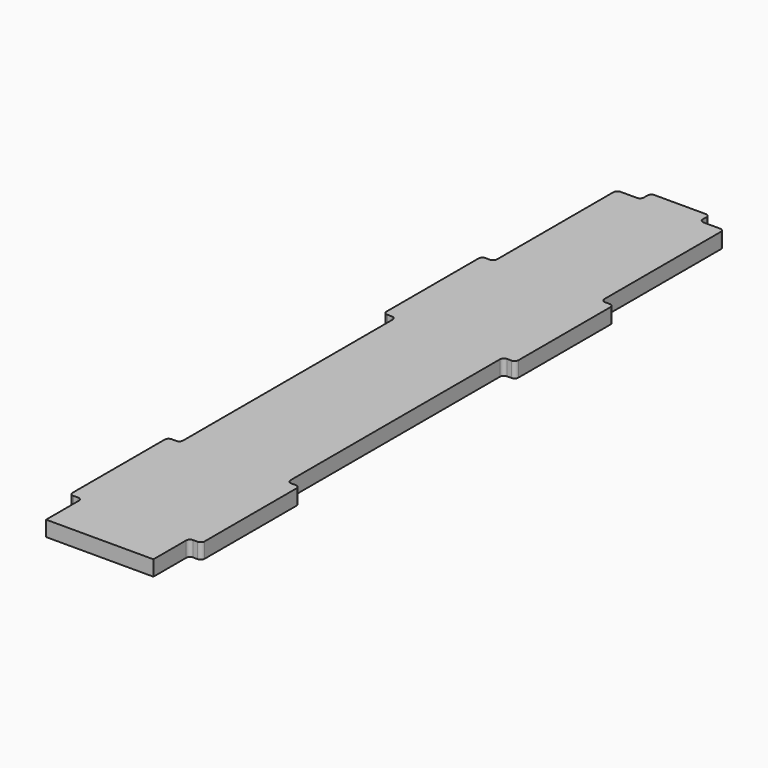
from build123d import *

# Parameters (mm, degrees)
F1_DEPTH = 6.35


with BuildPart() as f1:
    # F0 (on Top) → F1 (new body)
    with BuildSketch(Plane.XY):
        with BuildLine():
            Line((0, 300.355), (0, 0))
            Line((0, 0), (22.225, 0))
            Line((22.225, 0), (22.225, 16.9418))
            ThreePointArc((22.225, 16.9418), (22.693688, 18.073312), (23.8252, 18.542))
            Line((23.8252, 18.542), (25.7048, 18.542))
            ThreePointArc((25.7048, 18.542), (26.836312, 19.010688), (27.305, 20.1422))
            Line((27.305, 20.1422), (27.305, 67.7418))
            ThreePointArc((27.305, 67.7418), (26.836312, 68.873312), (25.7048, 69.342))
            Line((25.7048, 69.342), (23.8252, 69.342))
            ThreePointArc((23.8252, 69.342), (22.693688, 69.810688), (22.225, 70.9422))
            Line((22.225, 70.9422), (22.225, 179.3748))
            ThreePointArc((22.225, 179.3748), (22.693688, 180.506312), (23.8252, 180.975))
            Line((23.8252, 180.975), (25.7048, 180.975))
            ThreePointArc((25.7048, 180.975), (26.836312, 181.443688), (27.305, 182.5752))
            Line((27.305, 182.5752), (27.305, 230.1748))
            ThreePointArc((27.305, 230.1748), (26.836312, 231.306312), (25.7048, 231.775))
            Line((25.7048, 231.775), (23.8252, 231.775))
            ThreePointArc((23.8252, 231.775), (22.693688, 232.243688), (22.225, 233.3752))
            Line((22.225, 233.3752), (22.225, 293.6748))
            ThreePointArc((22.225, 293.6748), (21.756312, 294.806312), (20.6248, 295.275))
            Line((20.6248, 295.275), (13.7922, 295.275))
            ThreePointArc((13.7922, 295.275), (12.660688, 295.743688), (12.192, 296.8752))
            Line((12.192, 296.8752), (12.192, 298.7548))
            ThreePointArc((12.192, 298.7548), (11.723312, 299.886312), (10.5918, 300.355))
            Line((10.5918, 300.355), (0, 300.355))
        make_face()
    extrude(amount=F1_DEPTH)

    # F2: F1 across face


with BuildPart() as f1_1:
    add(f1.part)
    add(f1.part.mirror(Plane(origin=(0, 150.1775, 3.175), x_dir=(0, -1, 0), z_dir=(-1, 0, 0))))


solid = f1_1.part
